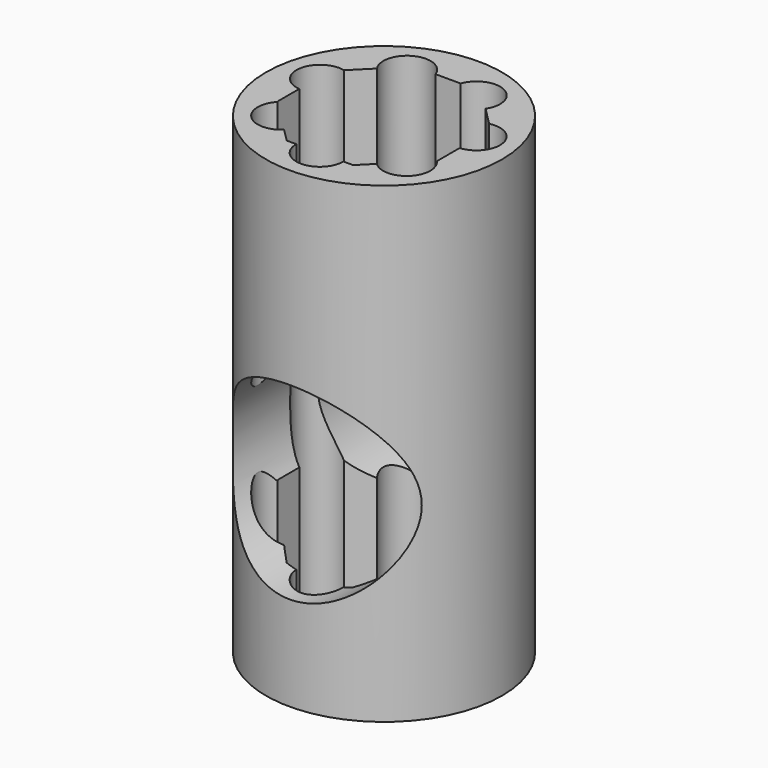
from build123d import *

# Parameters (mm, degrees)
F0_R          = 250
F1_DEPTH      = 1000
F2_R          = 200
F3_DEPTH      = 360.0616455078
F3_DEPTH_BACK = 472.4840223789
F5_DEPTH      = 1000.0010001


with BuildPart() as f1:
    # F0 (on Top) → F1 (new body)
    with BuildSketch(Plane.XY):
        Circle(F0_R)
        Polygon((-70.301785819, 169.7235247833), (70.301785819, 169.7235247833), (169.7235247833, 70.301785819), (169.7235247833, -70.301785819), (70.301785819, -169.7235247833), (-70.301785819, -169.7235247833), (-169.7235247833, -70.301785819), (-169.7235247833, 70.301785819), align=None, mode=Mode.SUBTRACT)
    extrude(amount=F1_DEPTH)

    # F2 (on Front) → F3 (cut, two sides)
    with BuildSketch(Plane.XZ) as f3_sk:
        with Locations((0, 400)):
            Circle(F2_R)
    extrude(amount=-F3_DEPTH, mode=Mode.SUBTRACT)
    extrude(f3_sk.sketch, amount=F3_DEPTH_BACK, mode=Mode.SUBTRACT)

    # F4 (on face) → F5 (cut, through all)
    with BuildSketch(Plane(origin=(0, 0, 0), x_dir=(1, 0, 0), z_dir=(0, 0, -1))):
        with BuildLine():
            Line((-168.7970943813, 71.228216221), (-98.1025243741, 141.9227862282))
            ThreePointArc((-98.1025243741, 141.9227862282), (-168.0505340504, 141.1762258972), (-168.7970943813, 71.228216221))
        make_face()
        with BuildLine():
            ThreePointArc((-82.695194991, 105.8208868379), (-86.7080580349, 125.4469724022), (-98.1025243741, 141.9227862282))
            Line((-98.1025243741, 141.9227862282), (-168.7970943813, 71.228216221))
            ThreePointArc((-168.7970943813, 71.228216221), (-114.0551167926, 59.4253322582), (-82.695194991, 105.8208868379))
        make_face()
        with BuildLine():
            Line((-50, 169.7235247833), (50, 169.7235247833))
            ThreePointArc((50, 169.7235247833), (0, 219.7235247833), (-50, 169.7235247833))
        make_face()
        with BuildLine():
            ThreePointArc((-50, 169.7235247833), (0, 119.7235247833), (50, 169.7235247833))
            Line((50, 169.7235247833), (-50, 169.7235247833))
        make_face()
        with BuildLine():
            Line((168.7970943813, 71.228216221), (98.1025243741, 141.9227862282))
            ThreePointArc((98.1025243741, 141.9227862282), (97.3398559317, 70.4655477786), (168.7970943813, 71.228216221))
        make_face()
        with BuildLine():
            ThreePointArc((182.695194991, 105.8208868379), (152.3212805553, 151.8080237941), (98.1025243741, 141.9227862282))
            Line((98.1025243741, 141.9227862282), (168.7970943813, 71.228216221))
            ThreePointArc((168.7970943813, 71.228216221), (179.0907495707, 87.1808086395), (182.695194991, 105.8208868379))
        make_face()
        with BuildLine():
            ThreePointArc((-115.4682016651, -37.7670372491), (-131.6507960573, -0.9379308528), (-169.7235247833, 12.0515559181))
            Line((-169.7235247833, 12.0515559181), (-169.7235247833, -70.301785819))
            Line((-169.7235247833, -70.301785819), (-153.6701479637, -86.3551626386))
            ThreePointArc((-153.6701479637, -86.3551626386), (-126.1623326055, -68.6708987791), (-115.4682016651, -37.7670372491))
        make_face()
        with BuildLine():
            Line((-169.7235247833, -70.301785819), (-169.7235247833, 12.0515559181))
            ThreePointArc((-169.7235247833, 12.0515559181), (-214.8158840872, -45.817269517), (-153.6701479637, -86.3551626386))
            Line((-153.6701479637, -86.3551626386), (-169.7235247833, -70.301785819))
        make_face()
        with BuildLine():
            ThreePointArc((215.4682016651, -37.7670372491), (202.2973080615, -3.9496316413), (169.7235247833, 12.0515559181))
            Line((169.7235247833, 12.0515559181), (169.7235247833, -70.301785819))
            Line((169.7235247833, -70.301785819), (153.6701479637, -86.3551626386))
            ThreePointArc((153.6701479637, -86.3551626386), (196.3720631951, -77.0729063088), (215.4682016651, -37.7670372491))
        make_face()
        with BuildLine():
            Line((169.7235247833, -70.301785819), (169.7235247833, 12.0515559181))
            ThreePointArc((169.7235247833, 12.0515559181), (116.120519243, -29.7168049813), (153.6701479637, -86.3551626386))
            Line((153.6701479637, -86.3551626386), (169.7235247833, -70.301785819))
        make_face()
        with BuildLine():
            Line((70.301785819, -169.7235247833), (115.08296518, -124.9423454223))
            ThreePointArc((115.08296518, -124.9423454223), (51.0723286162, -108.2984887993), (26.550001831, -169.7235247833))
            Line((26.550001831, -169.7235247833), (70.301785819, -169.7235247833))
        make_face()
        with BuildLine():
            ThreePointArc((123.6402775492, -152.9156119804), (121.4531125495, -138.2891698557), (115.08296518, -124.9423454223))
            Line((115.08296518, -124.9423454223), (70.301785819, -169.7235247833))
            Line((70.301785819, -169.7235247833), (26.550001831, -169.7235247833))
            ThreePointArc((26.550001831, -169.7235247833), (82.1692345221, -202.1828109363), (123.6402775492, -152.9156119804))
        make_face()
        with BuildLine():
            ThreePointArc((-23.6402775492, -152.9156119804), (-59.0138354244, -105.1027769801), (-115.08296518, -124.9423454223))
            Line((-115.08296518, -124.9423454223), (-70.301785819, -169.7235247833))
            Line((-70.301785819, -169.7235247833), (-26.550001831, -169.7235247833))
            ThreePointArc((-26.550001831, -169.7235247833), (-24.3730785934, -161.4445689534), (-23.6402775492, -152.9156119804))
        make_face()
        with BuildLine():
            Line((-70.301785819, -169.7235247833), (-115.08296518, -124.9423454223))
            ThreePointArc((-115.08296518, -124.9423454223), (-96.2082264822, -197.5327351615), (-26.550001831, -169.7235247833))
            Line((-26.550001831, -169.7235247833), (-70.301785819, -169.7235247833))
        make_face()
    extrude(amount=-F5_DEPTH, mode=Mode.SUBTRACT)


solid = f1.part
